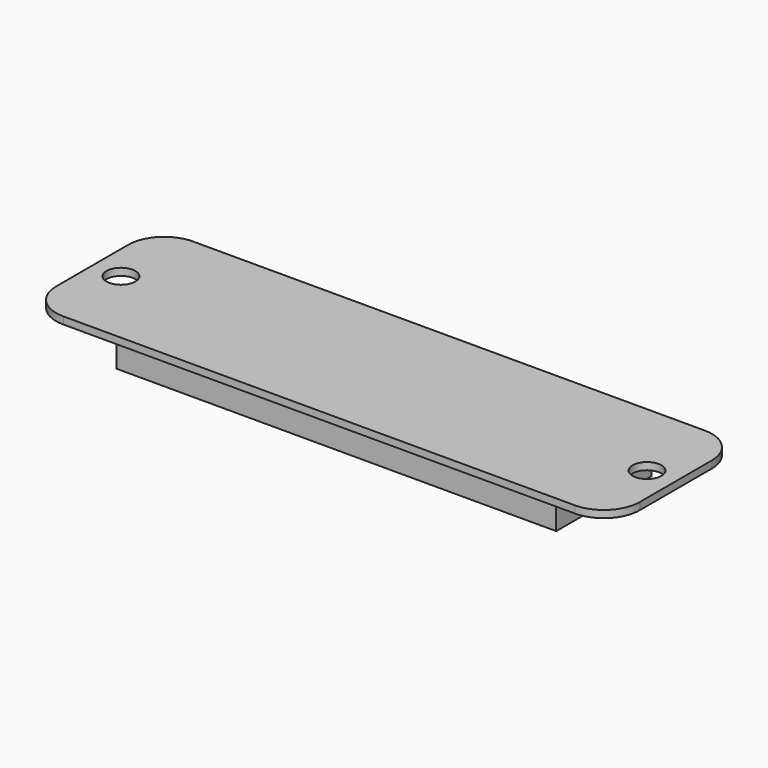
from build123d import *

# Parameters (mm, degrees)
SKETCH_W        = 61
SKETCH_H        = 16.5
PAD_DEPTH       = 6
SKETCH001_W     = 55
SKETCH001_H     = 10.5
SKETCH001_R     = 1
POCKET_DEPTH    = 3
SKETCH002_W     = 55
SKETCH002_H     = 6
POCKET001_DEPTH = 4
PAD001_START    = 5
SKETCH003_W     = 81
SKETCH003_H     = 22.5
SKETCH003_R     = 2
PAD001_DEPTH    = 1
FILLET_R        = 5


with BuildPart() as part:
    # Sketch → Pad (new body)
    with BuildSketch(Plane.XY):
        Rectangle(SKETCH_W, SKETCH_H)
    extrude(amount=PAD_DEPTH)

    # Sketch001 → Pocket (cut)
    with BuildSketch(Plane.XY):
        Rectangle(SKETCH001_W, SKETCH001_H)
        with Locations((-13, -3.25)):
            Circle(SKETCH001_R, mode=Mode.SUBTRACT)
        with Locations((13, -3.25)):
            Circle(SKETCH001_R, mode=Mode.SUBTRACT)
    extrude(amount=POCKET_DEPTH, mode=Mode.SUBTRACT)

    # Sketch002 → Pocket001 (cut)
    with BuildSketch(Plane.XY):
        with Locations((0, 2.25)):
            Rectangle(SKETCH002_W, SKETCH002_H)
    extrude(amount=POCKET001_DEPTH, mode=Mode.SUBTRACT)

    # Sketch003 → Pad001 (join)
    with BuildSketch(Plane.XY.offset(PAD001_START)):
        Rectangle(SKETCH003_W, SKETCH003_H)
        with Locations((36.5, 0)):
            Circle(SKETCH003_R, mode=Mode.SUBTRACT)
        with Locations((-36.5, 0)):
            Circle(SKETCH003_R, mode=Mode.SUBTRACT)
    extrude(amount=PAD001_DEPTH)

    # Fillet
    fillet_edges = [part.edges().sort_by_distance(p)[0] for p in [
        (-40.5, 11.25, 5.5),
        (-40.5, -11.25, 5.5),
        (40.5, -11.25, 5.5),
        (40.5, 11.25, 5.5),
    ]]
    fillet(fillet_edges, radius=FILLET_R)


solid = part.part
